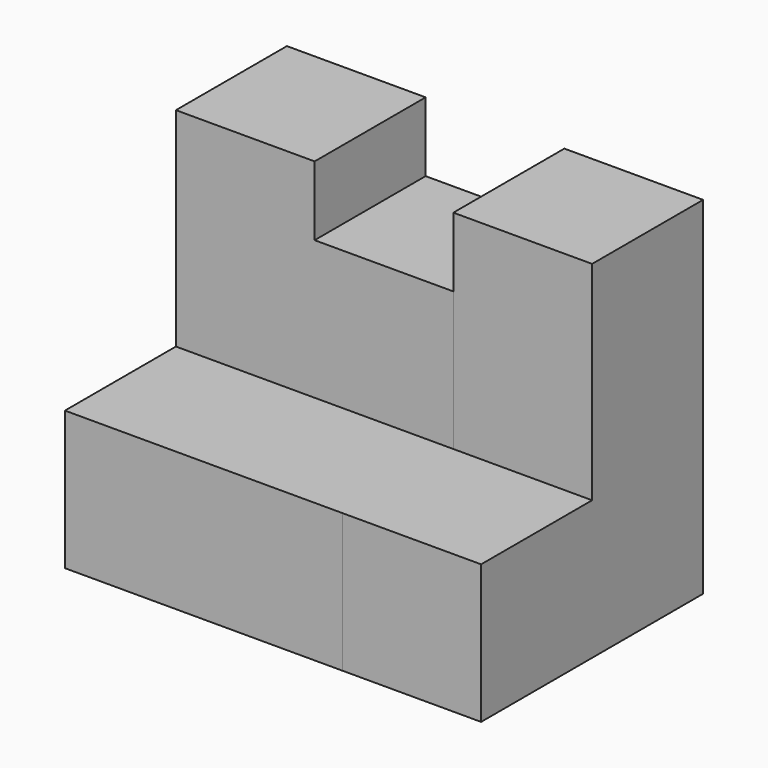
from build123d import *

# Parameters (mm, degrees)
F1_DEPTH = 25.4
F2_DEPTH = 12.7
F3_W     = 12.7
F3_H     = 6.35
F4_DEPTH = 12.701


with BuildPart() as f1:
    # F0 (on Right) → F1 (new body)
    with BuildSketch(Plane.YZ):
        Polygon((-45.853703, 51.307991), (-58.553703, 51.307991), (-58.553703, 32.257991), (-71.253703, 32.257991), (-71.253703, 19.557991), (-45.853703, 19.557991), align=None)
    extrude(amount=F1_DEPTH)

    # F1_face (on face) → F2 (join)
    with BuildSketch(Plane(origin=(25.4, -55.832275, 32.711562), x_dir=(0, 1, 0), z_dir=(1, 0, 0))):
        Polygon((9.978571, 18.596429), (-2.721429, 18.596429), (-2.721429, -0.453571), (-15.421429, -0.453571), (-15.421429, -13.153571), (9.978571, -13.153571), align=None)
    extrude(amount=F2_DEPTH)

    # F3 (on face) → F4 (cut, through all)
    with BuildSketch(Plane.XZ.offset(58.553703)):
        with Locations((19.05, 48.132991)):
            Rectangle(F3_W, F3_H)
    extrude(amount=-F4_DEPTH, mode=Mode.SUBTRACT)


solid = f1.part
